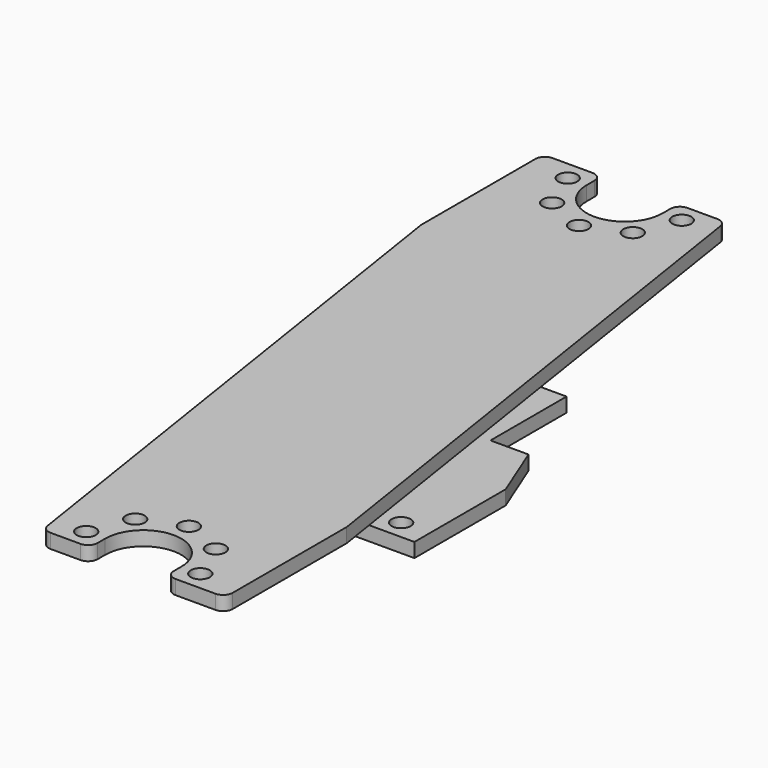
from build123d import *

# Parameters (mm, degrees)
F0_W     = 28.8
F0_H     = 28
F0_R     = 1
F1_DEPTH = 1.5
F3_DEPTH = 1.5
F5_R     = 1
F6_DEPTH = 1.5
F8_DEPTH = 1.5
F9_R     = 1


with BuildPart() as f1:
    # F0 (on Top) → F1 (new body)
    with BuildSketch(Plane.XY):
        Rectangle(F0_W, F0_H)
        with Locations((-3, -12)):
            Circle(F0_R, mode=Mode.SUBTRACT)
        with Locations((11.4, -12)):
            Circle(F0_R, mode=Mode.SUBTRACT)
        with Locations((-11.4, 12)):
            Circle(F0_R, mode=Mode.SUBTRACT)
        with Locations((3, 12)):
            Circle(F0_R, mode=Mode.SUBTRACT)
    extrude(amount=F1_DEPTH)

    # F2 (on face) → F3 (cut, through all)
    with BuildSketch(Plane.XY.offset(1.5)):
        Polygon((-12, -4), (-14.4, 2), (-14.4, -14), (-8, -14), (-8, -4), align=None)
        Polygon((14.4, -2), (14.4, 14), (8, 14), (8, 4), (12, 4), align=None)
    extrude(amount=-F3_DEPTH, mode=Mode.SUBTRACT)


with BuildPart() as f6:
    # F5 (on offset) → F6 (new body)
    with BuildSketch(Plane.XY.offset(5)):
        with BuildLine():
            Line((-8.2, 38.9), (-14.4, 38.9))
            Line((-14.4, 38.9), (-14.4, -38.9))
            Line((-14.4, -38.9), (0.2, -38.9))
            Line((0.2, -38.9), (0.2, -36.9))
            ThreePointArc((0.2, -36.9), (4.2, -32.9), (8.2, -36.9))
            Line((8.2, -36.9), (8.2, -38.9))
            Line((8.2, -38.9), (14.4, -38.9))
            Line((14.4, -38.9), (14.4, 38.9))
            Line((14.4, 38.9), (-0.2, 38.9))
            Line((-0.2, 38.9), (-0.2, 36.9))
            ThreePointArc((-0.2, 36.9), (-4.2, 32.9), (-8.2, 36.9))
            Line((-8.2, 36.9), (-8.2, 38.9))
        make_face()
        with Locations((-1.8, -36.9)):
            Circle(F5_R, mode=Mode.SUBTRACT)
        with Locations((-0.0426406871, -32.6573593129)):
            Circle(F5_R, mode=Mode.SUBTRACT)
        with Locations((4.2, -30.9)):
            Circle(F5_R, mode=Mode.SUBTRACT)
        with Locations((10.2, -36.9)):
            Circle(F5_R, mode=Mode.SUBTRACT)
        with Locations((8.4426406871, -32.6573593129)):
            Circle(F5_R, mode=Mode.SUBTRACT)
        with Locations((-8.4426406871, 32.6573593129)):
            Circle(F5_R, mode=Mode.SUBTRACT)
        with Locations((-10.2, 36.9)):
            Circle(F5_R, mode=Mode.SUBTRACT)
        with Locations((-4.2, 30.9)):
            Circle(F5_R, mode=Mode.SUBTRACT)
        with Locations((0.0426406871, 32.6573593129)):
            Circle(F5_R, mode=Mode.SUBTRACT)
        with Locations((1.8, 36.9)):
            Circle(F5_R, mode=Mode.SUBTRACT)
    extrude(amount=F6_DEPTH)

    # F7 (on face) → F8 (cut, through all)
    with BuildSketch(Plane.XY.offset(6.5)):
        Polygon((-4.8, -38.9), (-14.4, 22.9), (-14.4, -38.9), align=None)
        Polygon((4.8, 38.9), (14.4, -22.9), (14.4, 38.9), align=None)
    extrude(amount=-F8_DEPTH, mode=Mode.SUBTRACT)

    # F9
    f9_edges = [f6.edges().sort_by_distance(p)[0] for p in [
        (-4.8, -38.9, 5.75),
        (0.2, -38.9, 5.75),
        (8.2, -38.9, 5.75),
        (14.4, -38.9, 5.75),
        (4.8, 38.9, 5.75),
        (-0.2, 38.9, 5.75),
        (-8.2, 38.9, 5.75),
        (-14.4, 38.9, 5.75),
    ]]
    fillet(f9_edges, radius=F9_R)


solid = Compound([f1.part, f6.part])
